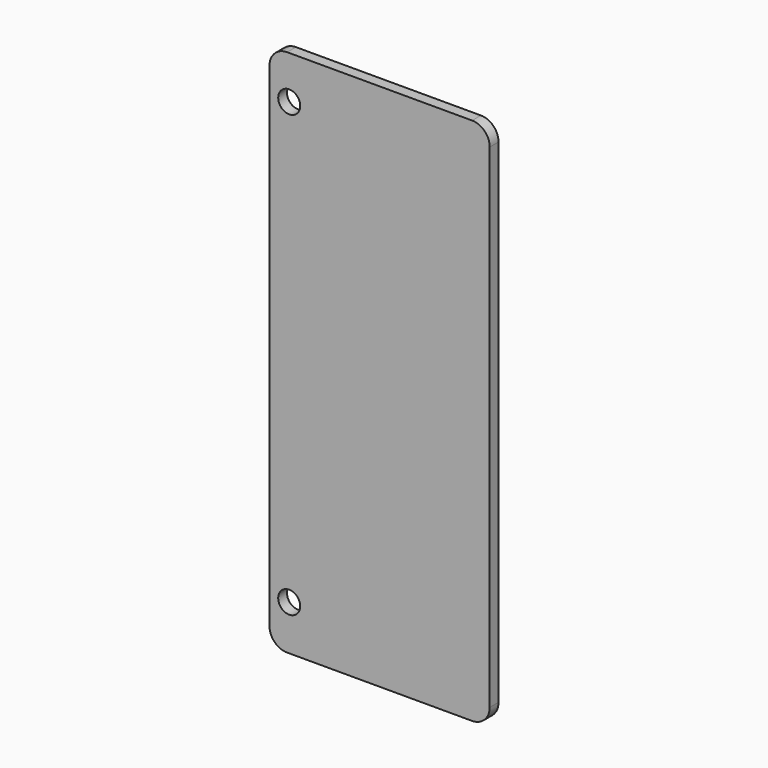
from build123d import *

# Parameters (mm, degrees)
F0_W     = 63.5
F0_H     = 152.4
F1_DEPTH = 3.175
F2_R     = 5.08
F4_D     = 6.35
F5_D     = 6.35


with BuildPart() as f1:
    # F0 (on Front) → F1 (new body)
    with BuildSketch(Plane.XZ):
        with Locations((12.024884, 32.188336)):
            Rectangle(F0_W, F0_H)
        with Locations((12.024884, 32.188336)):
            Rectangle(F0_W, F0_H)
    extrude(amount=F1_DEPTH)

    # F2
    f2_edges = [f1.edges().sort_by_distance(p)[0] for p in [
        (-19.725116, -1.5875, 108.388336),
        (43.774884, -1.5875, 108.388336),
        (43.774884, -1.5875, -44.011664),
        (-19.725116, -1.5875, -44.011664),
    ]]
    fillet(f2_edges, radius=F2_R)

    # F4 (through all)
    with Locations(Plane.XZ.offset(3.175)):
        with Locations((-14.036109, 95.980532)):
            Hole(F4_D / 2)

    # F5 (through all)
    with Locations(Plane.XZ.offset(3.175)):
        with Locations((-14.036109, -31.019468)):
            Hole(F5_D / 2)


solid = f1.part
